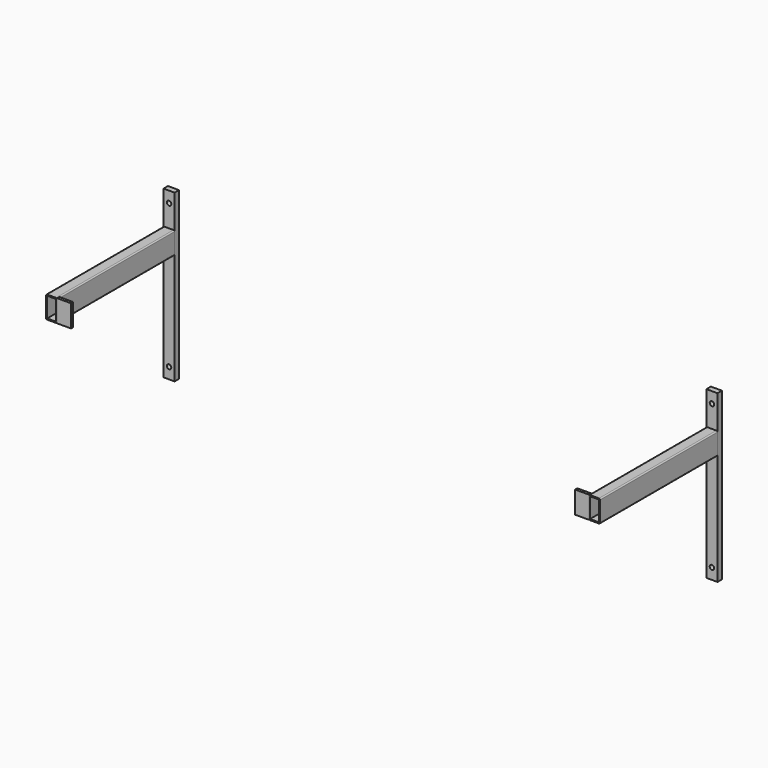
from build123d import *

# Parameters (mm, degrees)
F0_W     = 20
F0_H     = 300
F0_R     = 4
F1_DEPTH = 10
F3_DEPTH = 265
F6_W     = 5
F6_H     = 40
F7_DEPTH = 25


with BuildPart() as f1:
    # F0 (on Front) → F1 (new body)
    with BuildSketch(Plane.XZ):
        Rectangle(F0_W, F0_H)
        with Locations((0, -130)):
            Circle(F0_R, mode=Mode.SUBTRACT)
        with Locations((0, 130)):
            Circle(F0_R, mode=Mode.SUBTRACT)
    extrude(amount=F1_DEPTH)


with BuildPart() as f3:
    # F2 (on face) → F3 (new body)
    with BuildSketch(Plane.XZ.offset(10)):
        with BuildLine():
            Line((0, 90), (-8, 90))
            ThreePointArc((-8, 90), (-9.414214, 89.414214), (-10, 88))
            Line((-10, 88), (-10, 52))
            ThreePointArc((-10, 52), (-9.414214, 50.585786), (-8, 50))
            Line((-8, 50), (0, 50))
            Line((0, 50), (0, 52))
            Line((0, 52), (-8, 52))
            Line((-8, 52), (-8, 88))
            Line((-8, 88), (0, 88))
            Line((0, 88), (0, 90))
        make_face()
        with BuildLine():
            Line((8, 90), (0, 90))
            Line((0, 90), (0, 88))
            Line((0, 88), (8, 88))
            Line((8, 88), (8, 52))
            Line((8, 52), (0, 52))
            Line((0, 52), (0, 50))
            Line((0, 50), (8, 50))
            ThreePointArc((8, 50), (9.414214, 50.585786), (10, 52))
            Line((10, 52), (10, 88))
            ThreePointArc((10, 88), (9.414214, 89.414214), (8, 90))
        make_face()
    extrude(amount=F3_DEPTH)


with BuildPart() as f7:
    # F6 (on face) → F7 (new body)
    with BuildSketch(Plane.YZ.offset(10)):
        with Locations((-272.5, 70)):
            Rectangle(F6_W, F6_H)
    extrude(amount=F7_DEPTH)


with BuildPart() as f8_1:
    # F8: instance of F1
    add(f1.part.mirror(Plane.YZ.offset(490)))


with BuildPart() as f8_2:
    # F8: instance of F3
    add(f3.part.mirror(Plane.YZ.offset(490)))


with BuildPart() as f8_3:
    # F8: instance of F7
    add(f7.part.mirror(Plane.YZ.offset(490)))


solid = Compound([f1.part, f3.part, f7.part, f8_1.part, f8_2.part, f8_3.part])
